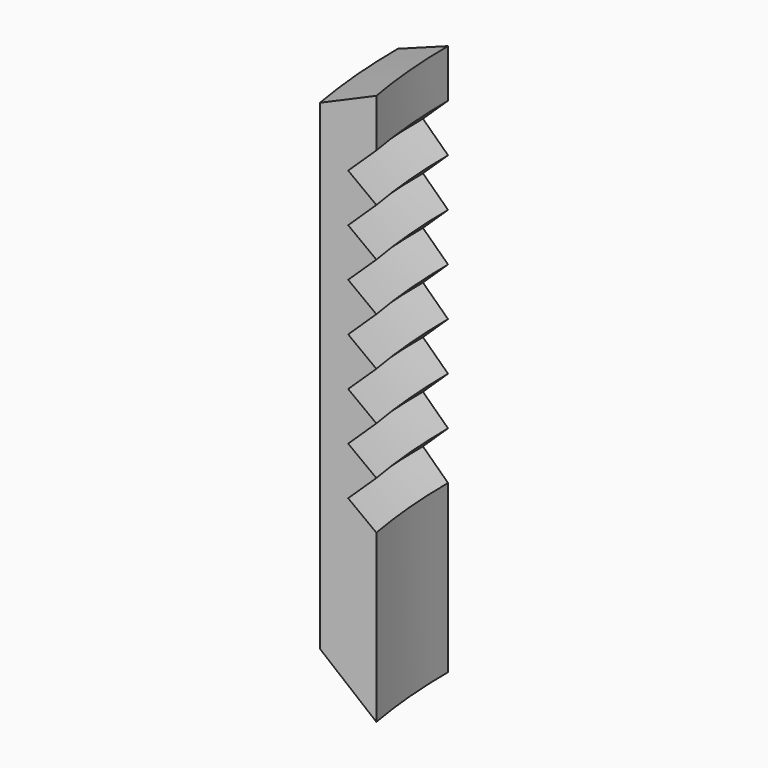
from build123d import *

# Parameters (mm, degrees)
F1_ANGLE = 10


with BuildPart() as f1:
    # F0 (on Front) → F1 (revolve)
    with BuildSketch(Plane.XZ):
        Polygon((-23.370816, 48.558565), (-24.4146, 48.17013), (-24.4146, 38.17013), (-23.370816, 37.092858), (-23.370816, 40.558565), (-23.892708, 41.058565), (-23.370816, 41.558565), (-23.892708, 42.058565), (-23.370816, 42.558565), (-23.892708, 43.058565), (-23.370816, 43.558565), (-23.892708, 44.058565), (-23.370816, 44.558565), (-23.892708, 45.058565), (-23.370816, 45.558565), (-23.892708, 46.058565), (-23.370816, 46.558565), (-23.892708, 47.058565), (-23.370816, 47.558565), align=None)
    revolve(axis=Axis((-11.320816, 0, 45.976719), (0, 0, 1)), revolution_arc=F1_ANGLE)


solid = f1.part
